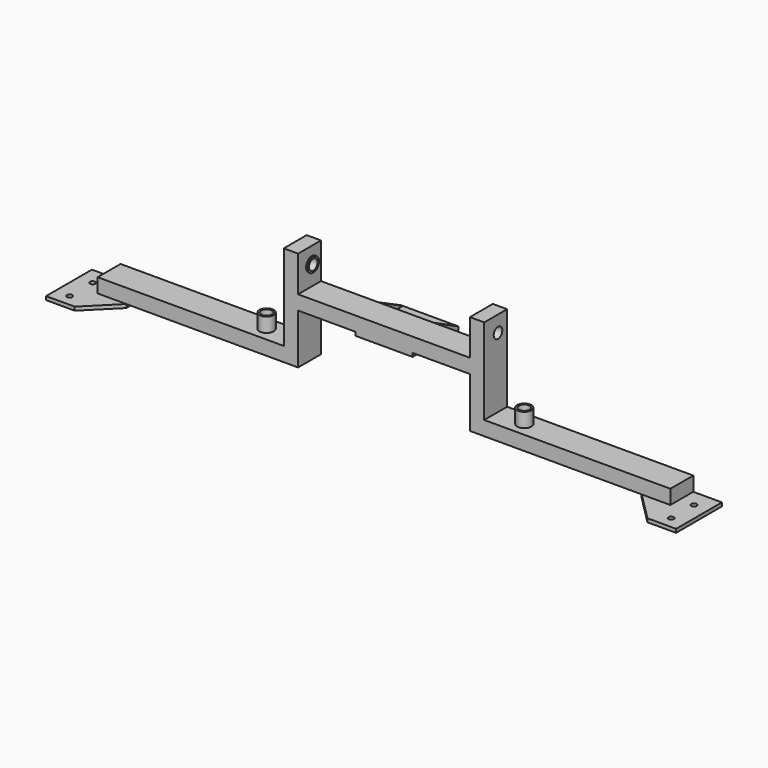
from build123d import *

# Parameters (mm, degrees)
F0_W      = 355.6
F0_H      = 50.8
F1_DEPTH  = 25.4
F3_DEPTH  = 6.35
F4_R      = 4.7625
F5_DEPTH  = 25.4
F6_R      = 12.7
F6_R_2    = 9.525
F7_DEPTH  = 25.4
F8_W      = 25.4
F8_H      = 50.8
F9_DEPTH  = 152.4
F10_W     = 50.8
F10_H     = 25.4
F11_DEPTH = 152.4
F12_R     = 12.7
F12_R_2   = 9.525
F13_DEPTH = 2.54
F14_R     = 9.525
F15_DEPTH = 25.4
F16_W     = 50.8
F16_H     = 101.6
F17_DEPTH = 6.35
F18_R     = 6.35
F19_DEPTH = 25.4
F20_W     = 50.8
F20_H     = 6.35
F21_DEPTH = 3.175


with BuildPart() as f1:
    # F0 (on Top) → F1 (new body)
    with BuildSketch(Plane.XY):
        with Locations((177.8, 11.79309)):
            Rectangle(F0_W, F0_H)
    extrude(amount=F1_DEPTH)

    # F2 (on Top) → F3 (join)
    with BuildSketch(Plane.XY):
        Polygon((355.6, 37.19309), (304.8, 37.19309), (304.8, -13.60691), (355.6, -64.40691), (406.4, -64.40691), (406.4, 37.19309), align=None)
    extrude(amount=-F3_DEPTH)

    # F4 (on face) → F5 (cut)
    with BuildSketch(Plane.XY):
        with Locations((381, -43.76941)):
            Circle(F4_R)
        with Locations((381, 7.03059)):
            Circle(F4_R)
    extrude(amount=-F5_DEPTH, mode=Mode.SUBTRACT)

    # F6 (on face) → F7 (join)
    with BuildSketch(Plane.XY.offset(25.4)):
        with Locations((76.2, 11.79309)):
            Circle(F6_R)
        with Locations((76.2, 11.79309)):
            Circle(F6_R_2, mode=Mode.SUBTRACT)
    extrude(amount=F7_DEPTH)

    # F8 (on face) → F9 (join)
    with BuildSketch(Plane.XY.offset(25.4)):
        with Locations((12.7, 11.79309)):
            Rectangle(F8_W, F8_H)
    extrude(amount=F9_DEPTH)

    # F10 (on face) → F11 (join)
    with BuildSketch(Plane(origin=(0, 0, 0), x_dir=(0, -1, 0), z_dir=(-1, 0, 0))):
        with Locations((-11.79309, 101.6)):
            Rectangle(F10_W, F10_H)
    extrude(amount=F11_DEPTH)

    # F12 (on face) → F13 (join)
    with BuildSketch(Plane(origin=(0, 0, 0), x_dir=(0, -1, 0), z_dir=(-1, 0, 0))):
        with Locations((-16.909977, 149.112195)):
            Circle(F12_R)
        with Locations((-16.909977, 149.112195)):
            Circle(F12_R_2, mode=Mode.SUBTRACT)
    extrude(amount=F13_DEPTH)

    # F14 (on face) → F15 (cut)
    with BuildSketch(Plane(origin=(0, 0, 0), x_dir=(0, -1, 0), z_dir=(-1, 0, 0))):
        with Locations((-16.909977, 149.112195)):
            Circle(F14_R)
    extrude(amount=-F15_DEPTH, mode=Mode.SUBTRACT)

    # F16 (on face) → F17 (join)
    with BuildSketch(Plane(origin=(0, 0, 88.9), x_dir=(1, 0, 0), z_dir=(0, 0, -1))):
        with Locations((-127, -37.19309)):
            Rectangle(F16_W, F16_H)
    extrude(amount=F17_DEPTH)

    # F18 (on face) → F19 (cut)
    with BuildSketch(Plane.XY.offset(88.9)):
        with Locations((-124.950424, 62.59309)):
            Circle(F18_R)
    extrude(amount=-F19_DEPTH, mode=Mode.SUBTRACT)

    # F20 (on face) → F21 (join)
    with BuildSketch(Plane.YZ.offset(-101.6)):
        Polygon((37.19309, 88.9), (87.99309, 88.9), (37.19309, 114.3), align=None)
        with Locations((62.59309, 85.725)):
            Rectangle(F20_W, F20_H)
    extrude(amount=-F21_DEPTH)

    # F22: F1 across face


with BuildPart() as f1_1:
    add(f1.part)
    add(f1.part.mirror(Plane(origin=(-152.4, 20.259757, 96.308333), x_dir=(0, -1, 0), z_dir=(-1, 0, 0))))


solid = f1_1.part
